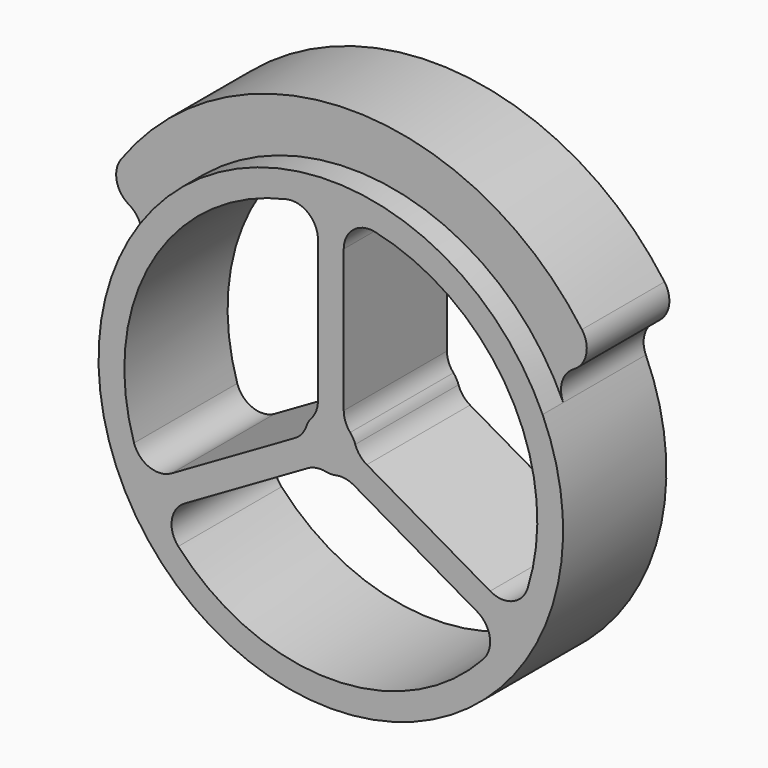
from build123d import *

# Parameters (mm, degrees)
F1_DEPTH = 25
F3_DEPTH = 5


with BuildPart() as f1:
    # F0 (on Front) → F1 (new body)
    with BuildSketch(Plane.XZ):
        with BuildLine():
            ThreePointArc((-43.08422, 24.874686), (-40.825433, 22.078816), (-41.025798, 18.490103))
            ThreePointArc((-41.025798, 18.490103), (0, -45), (41.025798, 18.490103))
            ThreePointArc((41.025798, 18.490103), (40.825433, 22.078816), (43.08422, 24.874686))
            ThreePointArc((43.08422, 24.874686), (45.472579, 28.154125), (44.642642, 32.125294))
            ThreePointArc((44.642642, 32.125294), (0, 55), (-44.642642, 32.125294))
            ThreePointArc((-44.642642, 32.125294), (-45.472579, 28.154125), (-43.08422, 24.874686))
        make_face()
        with BuildLine():
            ThreePointArc((-4.47822, -5.472253), (-2.785824, -4.868033), (-0.98911, -4.90119))
            ThreePointArc((-0.98911, -4.90119), (0, -5), (0.98911, -4.90119))
            ThreePointArc((0.98911, -4.90119), (2.785824, -4.868033), (4.47822, -5.472253))
            Line((4.47822, -5.472253), (28.356798, -19.258556))
            ThreePointArc((28.356798, -19.258556), (30.797764, -22.822617), (29.550627, -26.958495))
            ThreePointArc((29.550627, -26.958495), (0, -40), (-29.550627, -26.958495))
            ThreePointArc((-29.550627, -26.958495), (-30.797764, -22.822617), (-28.356798, -19.258556))
            Line((-28.356798, -19.258556), (-4.47822, -5.472253))
        make_face(mode=Mode.SUBTRACT)
        with BuildLine():
            ThreePointArc((-38.122055, -12.112346), (-34.641016, 20), (-8.571429, 39.070841))
            ThreePointArc((-8.571429, 39.070841), (-4.366084, 38.082954), (-2.5, 34.186986))
            Line((-2.5, 34.186986), (-2.5, 6.614378))
            ThreePointArc((-2.5, 6.614378), (-2.822928, 4.846611), (-3.75, 3.307189))
            ThreePointArc((-3.75, 3.307189), (-4.330127, 2.5), (-4.73911, 1.594001))
            ThreePointArc((-4.73911, 1.594001), (-5.608753, 0.021422), (-6.97822, -1.142126))
            Line((-6.97822, -1.142126), (-30.856798, -14.928429))
            ThreePointArc((-30.856798, -14.928429), (-35.163848, -15.260337), (-38.122055, -12.112346))
        make_face(mode=Mode.SUBTRACT)
        with BuildLine():
            ThreePointArc((3.75, 3.307189), (2.822928, 4.846611), (2.5, 6.614378))
            Line((2.5, 6.614378), (2.5, 34.186986))
            ThreePointArc((2.5, 34.186986), (4.366084, 38.082954), (8.571429, 39.070841))
            ThreePointArc((8.571429, 39.070841), (34.641016, 20), (38.122055, -12.112346))
            ThreePointArc((38.122055, -12.112346), (35.163848, -15.260337), (30.856798, -14.928429))
            Line((30.856798, -14.928429), (6.97822, -1.142126))
            ThreePointArc((6.97822, -1.142126), (5.608753, 0.021422), (4.73911, 1.594001))
            ThreePointArc((4.73911, 1.594001), (4.330127, 2.5), (3.75, 3.307189))
        make_face(mode=Mode.SUBTRACT)
        with BuildLine():
            ThreePointArc((-43.08422, 24.874686), (-40.825433, 22.078816), (-41.025798, 18.490103))
            ThreePointArc((-41.025798, 18.490103), (0, -45), (41.025798, 18.490103))
            ThreePointArc((41.025798, 18.490103), (40.825433, 22.078816), (43.08422, 24.874686))
            ThreePointArc((43.08422, 24.874686), (45.472579, 28.154125), (44.642642, 32.125294))
            ThreePointArc((44.642642, 32.125294), (0, 55), (-44.642642, 32.125294))
            ThreePointArc((-44.642642, 32.125294), (-45.472579, 28.154125), (-43.08422, 24.874686))
        make_face()
        with BuildLine():
            ThreePointArc((-4.47822, -5.472253), (-2.785824, -4.868033), (-0.98911, -4.90119))
            ThreePointArc((-0.98911, -4.90119), (0, -5), (0.98911, -4.90119))
            ThreePointArc((0.98911, -4.90119), (2.785824, -4.868033), (4.47822, -5.472253))
            Line((4.47822, -5.472253), (28.356798, -19.258556))
            ThreePointArc((28.356798, -19.258556), (30.797764, -22.822617), (29.550627, -26.958495))
            ThreePointArc((29.550627, -26.958495), (0, -40), (-29.550627, -26.958495))
            ThreePointArc((-29.550627, -26.958495), (-30.797764, -22.822617), (-28.356798, -19.258556))
            Line((-28.356798, -19.258556), (-4.47822, -5.472253))
        make_face(mode=Mode.SUBTRACT)
        with BuildLine():
            ThreePointArc((-38.122055, -12.112346), (-34.641016, 20), (-8.571429, 39.070841))
            ThreePointArc((-8.571429, 39.070841), (-4.366084, 38.082954), (-2.5, 34.186986))
            Line((-2.5, 34.186986), (-2.5, 6.614378))
            ThreePointArc((-2.5, 6.614378), (-2.822928, 4.846611), (-3.75, 3.307189))
            ThreePointArc((-3.75, 3.307189), (-4.330127, 2.5), (-4.73911, 1.594001))
            ThreePointArc((-4.73911, 1.594001), (-5.608753, 0.021422), (-6.97822, -1.142126))
            Line((-6.97822, -1.142126), (-30.856798, -14.928429))
            ThreePointArc((-30.856798, -14.928429), (-35.163848, -15.260337), (-38.122055, -12.112346))
        make_face(mode=Mode.SUBTRACT)
        with BuildLine():
            ThreePointArc((3.75, 3.307189), (2.822928, 4.846611), (2.5, 6.614378))
            Line((2.5, 6.614378), (2.5, 34.186986))
            ThreePointArc((2.5, 34.186986), (4.366084, 38.082954), (8.571429, 39.070841))
            ThreePointArc((8.571429, 39.070841), (34.641016, 20), (38.122055, -12.112346))
            ThreePointArc((38.122055, -12.112346), (35.163848, -15.260337), (30.856798, -14.928429))
            Line((30.856798, -14.928429), (6.97822, -1.142126))
            ThreePointArc((6.97822, -1.142126), (5.608753, 0.021422), (4.73911, 1.594001))
            ThreePointArc((4.73911, 1.594001), (4.330127, 2.5), (3.75, 3.307189))
        make_face(mode=Mode.SUBTRACT)
    extrude(amount=F1_DEPTH)

    # F2 (on face) → F3 (cut)
    with BuildSketch(Plane.XZ.offset(25)):
        with BuildLine():
            ThreePointArc((-41.025798, 18.490103), (0, 45), (41.025798, 18.490103))
            ThreePointArc((41.025798, 18.490103), (40.825433, 22.078816), (43.08422, 24.874686))
            ThreePointArc((43.08422, 24.874686), (45.472579, 28.154125), (44.642642, 32.125294))
            ThreePointArc((44.642642, 32.125294), (0, 55), (-44.642642, 32.125294))
            ThreePointArc((-44.642642, 32.125294), (-45.472579, 28.154125), (-43.08422, 24.874686))
            ThreePointArc((-43.08422, 24.874686), (-40.825433, 22.078816), (-41.025798, 18.490103))
        make_face()
    extrude(amount=-F3_DEPTH, mode=Mode.SUBTRACT)


solid = f1.part
